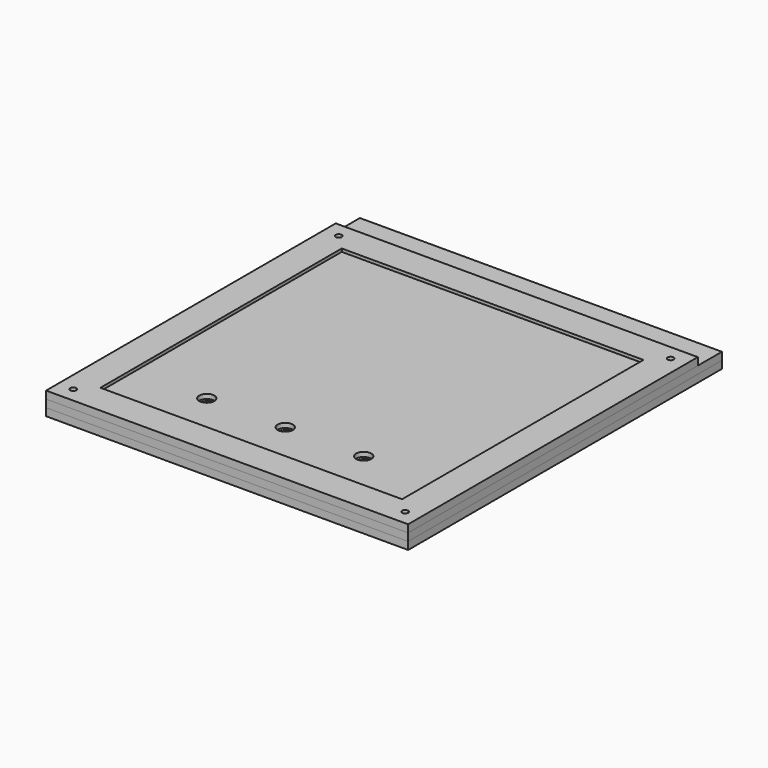
from build123d import *

# Parameters (mm, degrees)
F0_W     = 200
F0_H     = 220
F0_R     = 3.175
F0_R_2   = 10
F1_DEPTH = 5
F2_W     = 200
F2_H     = 220
F2_R     = 5
F3_DEPTH = 3
F4_W     = 240
F4_H     = 260
F4_R     = 2
F4_R_2   = 6
F4_R_3   = 25
F5_DEPTH = 5
F6_W     = 240
F6_H     = 260
F6_R     = 2
F6_W_2   = 200
F6_H_2   = 220
F7_DEPTH = 5
F8_W     = 240
F8_H     = 240
F8_R     = 2
F8_W_2   = 200
F8_H_2   = 200
F9_DEPTH = 5


with BuildPart() as f1:
    # F0 (on Top) → F1 (new body)
    with BuildSketch(Plane.XY):
        with Locations((100, 110)):
            Rectangle(F0_W, F0_H)
        with Locations((48, 8.175)):
            Circle(F0_R, mode=Mode.SUBTRACT)
        with Locations((48, 31.5)):
            Circle(F0_R_2, mode=Mode.SUBTRACT)
        with Locations((100, 8.175)):
            Circle(F0_R, mode=Mode.SUBTRACT)
        with Locations((100, 31.5)):
            Circle(F0_R_2, mode=Mode.SUBTRACT)
        with Locations((152, 8.175)):
            Circle(F0_R, mode=Mode.SUBTRACT)
        with Locations((152, 31.5)):
            Circle(F0_R_2, mode=Mode.SUBTRACT)
        with Locations((48, 188.5)):
            Circle(F0_R_2, mode=Mode.SUBTRACT)
        with Locations((48, 211.825)):
            Circle(F0_R, mode=Mode.SUBTRACT)
        with Locations((100, 188.5)):
            Circle(F0_R_2, mode=Mode.SUBTRACT)
        with Locations((100, 211.825)):
            Circle(F0_R, mode=Mode.SUBTRACT)
        with Locations((152, 188.5)):
            Circle(F0_R_2, mode=Mode.SUBTRACT)
        with Locations((152, 211.825)):
            Circle(F0_R, mode=Mode.SUBTRACT)
    extrude(amount=F1_DEPTH)


with BuildPart() as f3:
    # F2 (on face) → F3 (new body)
    with BuildSketch(Plane.XY.offset(5)):
        with Locations((100, 110)):
            Rectangle(F2_W, F2_H)
        with Locations((48, 28.175)):
            Circle(F2_R, mode=Mode.SUBTRACT)
        with Locations((100, 28.175)):
            Circle(F2_R, mode=Mode.SUBTRACT)
        with Locations((152, 28.175)):
            Circle(F2_R, mode=Mode.SUBTRACT)
        with Locations((48, 211.825)):
            Circle(F2_R, mode=Mode.SUBTRACT)
        with Locations((100, 211.825)):
            Circle(F2_R, mode=Mode.SUBTRACT)
        with Locations((152, 211.825)):
            Circle(F2_R, mode=Mode.SUBTRACT)
    extrude(amount=F3_DEPTH)


with BuildPart() as f5:
    # F4 (on face) → F5 (new body)
    with BuildSketch(Plane(origin=(0, 0, 0), x_dir=(1, 0, 0), z_dir=(0, 0, -1))):
        with Locations((100, -110)):
            Rectangle(F4_W, F4_H)
        with Locations((-10, -210)):
            Circle(F4_R, mode=Mode.SUBTRACT)
        with Locations((48, -191.675)):
            Circle(F4_R_2, mode=Mode.SUBTRACT)
        with Locations((100, -191.675)):
            Circle(F4_R_2, mode=Mode.SUBTRACT)
        with Locations((152, -191.675)):
            Circle(F4_R_2, mode=Mode.SUBTRACT)
        with Locations((210, -210)):
            Circle(F4_R, mode=Mode.SUBTRACT)
        with Locations((-10, 10)):
            Circle(F4_R, mode=Mode.SUBTRACT)
        with Locations((48, -8.175)):
            Circle(F4_R_2, mode=Mode.SUBTRACT)
        with Locations((100, -110)):
            Circle(F4_R_3, mode=Mode.SUBTRACT)
        with Locations((100, -8.175)):
            Circle(F4_R_2, mode=Mode.SUBTRACT)
        with Locations((152, -8.175)):
            Circle(F4_R_2, mode=Mode.SUBTRACT)
        with Locations((210, 10)):
            Circle(F4_R, mode=Mode.SUBTRACT)
    extrude(amount=F5_DEPTH)


with BuildPart() as f7:
    # F6 (on face) → F7 (new body)
    with BuildSketch(Plane.XY):
        with Locations((100, 110)):
            Rectangle(F6_W, F6_H)
        with Locations((-10, -10)):
            Circle(F6_R, mode=Mode.SUBTRACT)
        with Locations((210, -10)):
            Circle(F6_R, mode=Mode.SUBTRACT)
        with Locations((-10, 210)):
            Circle(F6_R, mode=Mode.SUBTRACT)
        with Locations((100, 110)):
            Rectangle(F6_W_2, F6_H_2, mode=Mode.SUBTRACT)
        with Locations((210, 210)):
            Circle(F6_R, mode=Mode.SUBTRACT)
    extrude(amount=F7_DEPTH)


with BuildPart() as f9:
    # F8 (on face) → F9 (new body)
    with BuildSketch(Plane.XY.offset(5)):
        with Locations((100, 100)):
            Rectangle(F8_W, F8_H)
        with Locations((-10, -10)):
            Circle(F8_R, mode=Mode.SUBTRACT)
        with Locations((210, -10)):
            Circle(F8_R, mode=Mode.SUBTRACT)
        with Locations((-10, 210)):
            Circle(F8_R, mode=Mode.SUBTRACT)
        with Locations((100, 100)):
            Rectangle(F8_W_2, F8_H_2, mode=Mode.SUBTRACT)
        with Locations((210, 210)):
            Circle(F8_R, mode=Mode.SUBTRACT)
    extrude(amount=F9_DEPTH)


solid = Compound([f1.part, f3.part, f5.part, f7.part, f9.part])
